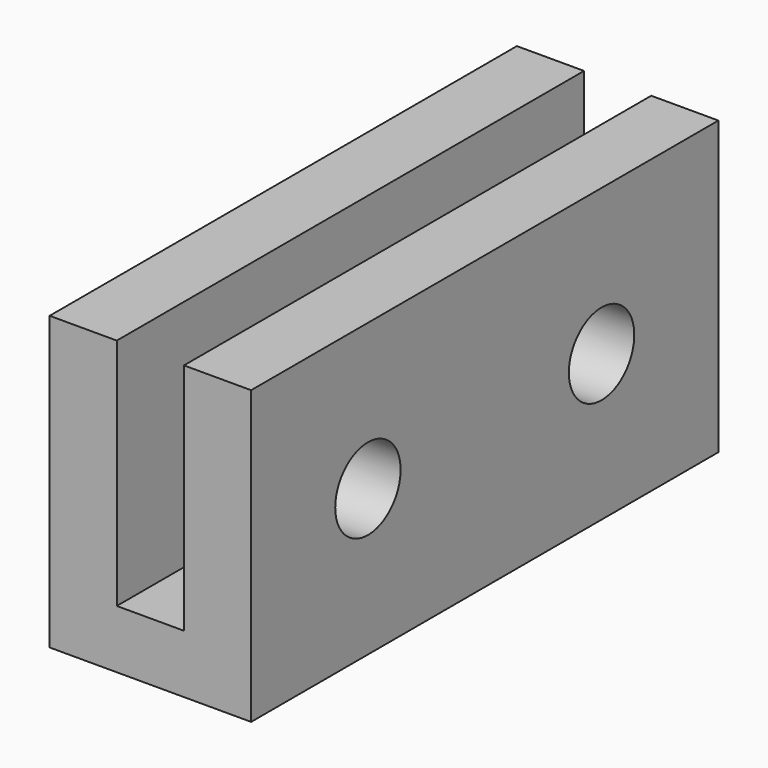
from build123d import *

# Parameters (mm, degrees)
F0_W     = 2.921
F0_H     = 25.4
F1_DEPTH = 2.54
F2_W     = 2.921
F2_H     = 25.4
F3_DEPTH = 10.16
F4_R     = 1.778
F5_DEPTH = 25.4


with BuildPart() as f1:
    # F0 (on Top) → F1 (new body)
    with BuildSketch(Plane.XY):
        Rectangle(F0_W, F0_H)
        with Locations((-2.921, 0)):
            Rectangle(F0_W, F0_H)
        with Locations((2.921, 0)):
            Rectangle(F0_W, F0_H)
    extrude(amount=F1_DEPTH)

    # F2 (on face) → F3 (join)
    with BuildSketch(Plane.XY.offset(2.54)):
        with Locations((-2.921, 0)):
            Rectangle(F2_W, F2_H)
        with Locations((2.921, 0)):
            Rectangle(F2_W, F2_H)
    extrude(amount=F3_DEPTH)

    # F4 (on face) → F5 (cut)
    with BuildSketch(Plane(origin=(-4.3815, 0, 0), x_dir=(0, -1, 0), z_dir=(-1, 0, 0))):
        with Locations((-6.35, 6.35)):
            Circle(F4_R)
        with Locations((6.35, 6.35)):
            Circle(F4_R)
    extrude(amount=-F5_DEPTH, mode=Mode.SUBTRACT)


solid = f1.part
